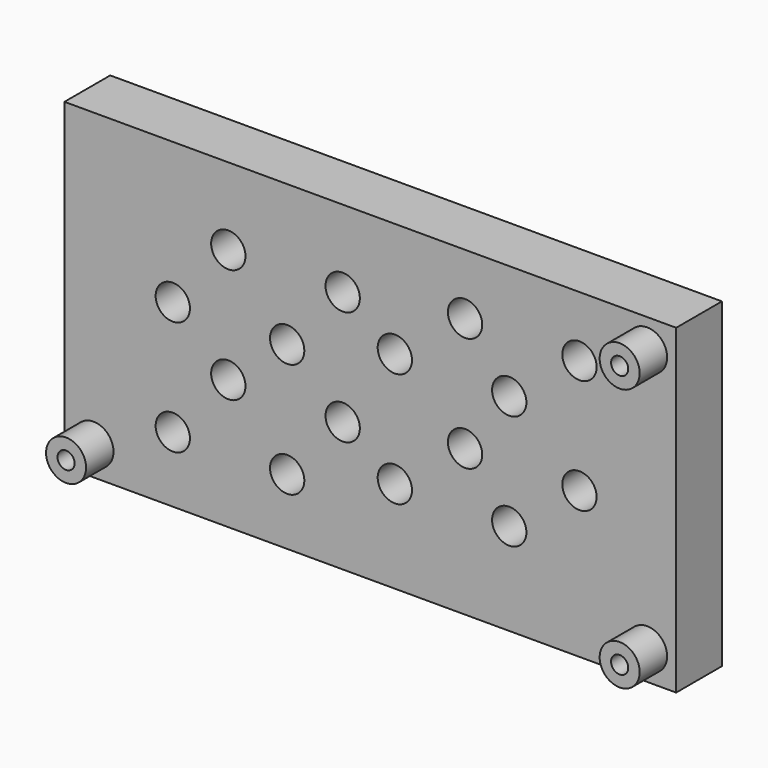
from build123d import *

# Parameters (mm, degrees)
F0_R     = 1.75
F0_R_2   = 0.75
F1_DEPTH = 8
F0_W     = 53.48
F0_H     = 28.08
F0_R_3   = 1.5
F2_DEPTH = 5


with BuildPart() as f1:
    # F0 (on Front) → F1 (new body)
    with BuildSketch(Plane.XZ):
        with Locations((2.54, 2.54)):
            Circle(F0_R)
        with Locations((2.54, 2.54)):
            Circle(F0_R_2, mode=Mode.SUBTRACT)
        with Locations((50.94, 2.54)):
            Circle(F0_R)
        with Locations((50.94, 2.54)):
            Circle(F0_R_2, mode=Mode.SUBTRACT)
        with Locations((50.94, 25.54)):
            Circle(F0_R)
        with Locations((50.94, 25.54)):
            Circle(F0_R_2, mode=Mode.SUBTRACT)
    extrude(amount=F1_DEPTH)


with BuildPart() as f2:
    # F0 (on Front) → F2 (new body)
    with BuildSketch(Plane.XZ):
        with Locations((26.74, 14.04)):
            Rectangle(F0_W, F0_H)
        with Locations((2.54, 2.54)):
            Circle(F0_R, mode=Mode.SUBTRACT)
        with Locations((9.471343, 5.738686)):
            Circle(F0_R_3, mode=Mode.SUBTRACT)
        with Locations((19.471343, 5.738686)):
            Circle(F0_R_3, mode=Mode.SUBTRACT)
        with Locations((14.32474, 11.344018)):
            Circle(F0_R_3, mode=Mode.SUBTRACT)
        with Locations((24.32474, 11.344018)):
            Circle(F0_R_3, mode=Mode.SUBTRACT)
        with Locations((50.94, 2.54)):
            Circle(F0_R, mode=Mode.SUBTRACT)
        with Locations((28.884929, 8.062848)):
            Circle(F0_R_3, mode=Mode.SUBTRACT)
        with Locations((38.884929, 8.062848)):
            Circle(F0_R_3, mode=Mode.SUBTRACT)
        with Locations((35.025523, 12.793549)):
            Circle(F0_R_3, mode=Mode.SUBTRACT)
        with Locations((45.025523, 12.793549)):
            Circle(F0_R_3, mode=Mode.SUBTRACT)
        with Locations((9.471343, 15.738686)):
            Circle(F0_R_3, mode=Mode.SUBTRACT)
        with Locations((19.471343, 15.738686)):
            Circle(F0_R_3, mode=Mode.SUBTRACT)
        with Locations((14.32474, 21.344018)):
            Circle(F0_R_3, mode=Mode.SUBTRACT)
        with Locations((24.32474, 21.344018)):
            Circle(F0_R_3, mode=Mode.SUBTRACT)
        with Locations((28.884929, 18.062848)):
            Circle(F0_R_3, mode=Mode.SUBTRACT)
        with Locations((38.884929, 18.062848)):
            Circle(F0_R_3, mode=Mode.SUBTRACT)
        with Locations((35.025523, 22.793549)):
            Circle(F0_R_3, mode=Mode.SUBTRACT)
        with Locations((45.025523, 22.793549)):
            Circle(F0_R_3, mode=Mode.SUBTRACT)
        with Locations((50.94, 25.54)):
            Circle(F0_R, mode=Mode.SUBTRACT)
    extrude(amount=F2_DEPTH)


solid = Compound([f1.part, f2.part])
